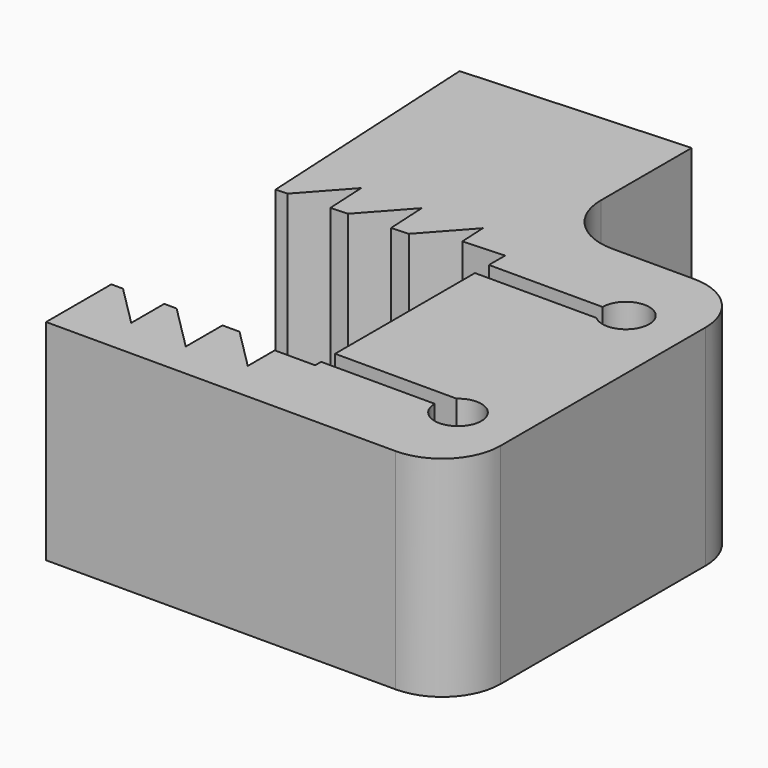
from build123d import *

# Parameters (mm, degrees)
F0_W     = 18
F0_H     = 11
F1_DEPTH = 18
F2_R     = 5


with BuildPart() as f1:
    # F0 (on Top) → F1 (new body)
    with BuildSketch(Plane.XY):
        with Locations((-0.382075, 22.777358)):
            Rectangle(F0_W, F0_H)
        with BuildLine():
            Line((-9.382075, 10.277358), (-9.382075, 9.877358))
            Line((-9.382075, 9.877358), (-8.383446, 9.929694))
            Line((-8.383446, 9.929694), (-5.037793, 13.645418))
            Line((-5.037793, 13.645418), (-4.852757, 10.11473))
            Line((-4.852757, 10.11473), (-3.390298, 10.191374))
            Line((-3.390298, 10.191374), (-0.044645, 13.907098))
            Line((-0.044645, 13.907098), (0.14039, 10.37641))
            Line((0.14039, 10.37641), (1.602849, 10.453054))
            Line((1.602849, 10.453054), (4.968313, 14.190779))
            Line((4.968313, 14.190779), (5.091545, 11.839359))
            Line((5.091545, 11.839359), (8.617925, 12.024169))
            Line((8.617925, 12.024169), (8.617925, 10.820698))
            Line((8.617925, 10.820698), (8.617925, 10.277358))
            Line((8.617925, 10.277358), (18.368002, 10.277358))
            ThreePointArc((18.368002, 10.277358), (20.368002, 12.277358), (22.368002, 10.277358))
            ThreePointArc((22.368002, 10.277358), (21.190878, 8.454483), (19.045127, 8.777358))
            Line((19.045127, 8.777358), (8.617925, 8.777358))
            Line((8.617925, 8.777358), (8.617925, -6.222642))
            Line((8.617925, -6.222642), (19.045127, -6.222642))
            ThreePointArc((19.045127, -6.222642), (21.190878, -5.899766), (22.368002, -7.722642))
            ThreePointArc((22.368002, -7.722642), (20.368002, -9.722642), (18.368002, -7.722642))
            Line((18.368002, -7.722642), (8.617925, -7.722642))
            Line((8.617925, -7.722642), (8.617925, -8.364536))
            Line((8.617925, -8.364536), (5.153458, -8.364536))
            Line((5.153458, -8.364536), (5.153458, -11.258175))
            Line((5.153458, -11.258175), (1.617925, -7.722642))
            Line((1.617925, -7.722642), (0.153458, -7.722642))
            Line((0.153458, -7.722642), (0.153458, -11.658175))
            Line((0.153458, -11.658175), (-3.782075, -7.722642))
            Line((-3.782075, -7.722642), (-4.846542, -7.722642))
            Line((-4.846542, -7.722642), (-4.846542, -11.258175))
            Line((-4.846542, -11.258175), (-8.382075, -7.722642))
            Line((-8.382075, -7.722642), (-9.382075, -7.722642))
            Line((-9.382075, -7.722642), (-9.382075, -14.722642))
            Line((-9.382075, -14.722642), (25.617925, -14.722642))
            Line((25.617925, -14.722642), (25.617925, 17.277358))
            Line((25.617925, 17.277358), (8.617925, 17.277358))
            Line((8.617925, 17.277358), (-9.382075, 17.277358))
            Line((-9.382075, 17.277358), (-9.382075, 10.277358))
        make_face()
        Polygon((-10.490221, 31.022026), (-9.382075, 9.877358), (-9.382075, 10.277358), (-9.382075, 17.277358), (-9.382075, 28.277358), (8.617925, 28.277358), (8.617925, 32.023441), align=None)
    extrude(amount=F1_DEPTH)

    # F2
    f2_edges = [f1.edges().sort_by_distance(p)[0] for p in [
        (8.617925, 17.277358, 9),
        (25.617925, 17.277358, 9),
        (25.617925, -14.722642, 9),
    ]]
    fillet(f2_edges, radius=F2_R)


solid = f1.part
